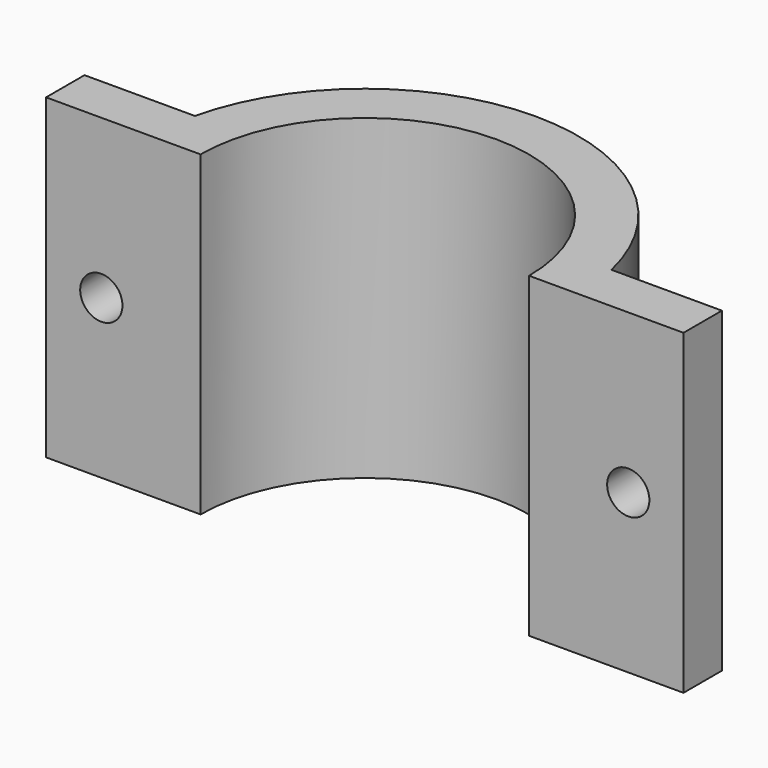
from build123d import *

# Parameters (mm, degrees)
F0_R     = 17.1
F1_DEPTH = 33
F3_D     = 4.4
F5_D     = 4.4
F7_DEPTH = 33


with BuildPart() as f1:
    # F0 (on Top) → F1 (new body)
    with BuildSketch(Plane.XY):
        with BuildLine():
            ThreePointArc((-21.6809247958, -5), (-22.25, 0), (-21.6809247958, 5))
            Line((-21.6809247958, 5), (-33.1809247958, 5))
            Line((-33.1809247958, 5), (-33.1809247958, -5))
            Line((-33.1809247958, -5), (-21.6809247958, -5))
        make_face()
        with BuildLine():
            ThreePointArc((21.6809247958, -5), (22.1072734265, -2.516140228), (22.25, 0))
            ThreePointArc((22.25, 0), (22.1072734265, 2.516140228), (21.6809247958, 5))
            ThreePointArc((21.6809247958, 5), (0, 22.25), (-21.6809247958, 5))
            ThreePointArc((-21.6809247958, 5), (-22.25, 0), (-21.6809247958, -5))
            ThreePointArc((-21.6809247958, -5), (0, -22.25), (21.6809247958, -5))
        make_face()
        Circle(F0_R, mode=Mode.SUBTRACT)
        with BuildLine():
            ThreePointArc((21.6809247958, 5), (22.1072734265, 2.516140228), (22.25, 0))
            ThreePointArc((22.25, 0), (22.1072734265, -2.516140228), (21.6809247958, -5))
            Line((21.6809247958, -5), (33.1809247958, -5))
            Line((33.1809247958, -5), (33.1809247958, 5))
            Line((33.1809247958, 5), (21.6809247958, 5))
        make_face()
    extrude(amount=F1_DEPTH)

    # F3 (through all)
    with Locations(Plane.XZ.offset(5)):
        with Locations((-27.4309247958, 16.5)):
            Hole(F3_D / 2)

    # F5 (through all)
    with Locations(Plane.XZ.offset(5)):
        with Locations((27.4309247958, 16.5)):
            Hole(F5_D / 2)

    # F6 (on face) → F7 (cut)
    with BuildSketch(Plane.XY.offset(33)):
        with BuildLine():
            Line((33.1809247958, 0), (17.1, 0))
            ThreePointArc((17.1, 0), (0, -17.1), (-17.1, 0))
            Line((-17.1, 0), (-33.1809247958, 0))
            Line((-33.1809247958, 0), (-33.1809247958, -5))
            Line((-33.1809247958, -5), (-21.6809247958, -5))
            ThreePointArc((-21.6809247958, -5), (0, -22.25), (21.6809247958, -5))
            Line((21.6809247958, -5), (33.1809247958, -5))
            Line((33.1809247958, -5), (33.1809247958, 0))
        make_face()
        with BuildLine():
            Line((33.1809247958, -22.675672546), (33.1809247958, -5))
            Line((33.1809247958, -5), (21.6809247958, -5))
            ThreePointArc((21.6809247958, -5), (0, -22.25), (-21.6809247958, -5))
            Line((-21.6809247958, -5), (-33.1809247958, -5))
            Line((-33.1809247958, -5), (-33.1809247958, -22.675672546))
            Line((-33.1809247958, -22.675672546), (33.1809247958, -22.675672546))
        make_face()
        with BuildLine():
            ThreePointArc((-17.1, 0), (0, -17.1), (17.1, 0))
            Line((17.1, 0), (-17.1, 0))
        make_face()
    extrude(amount=-F7_DEPTH, mode=Mode.SUBTRACT)


solid = f1.part
